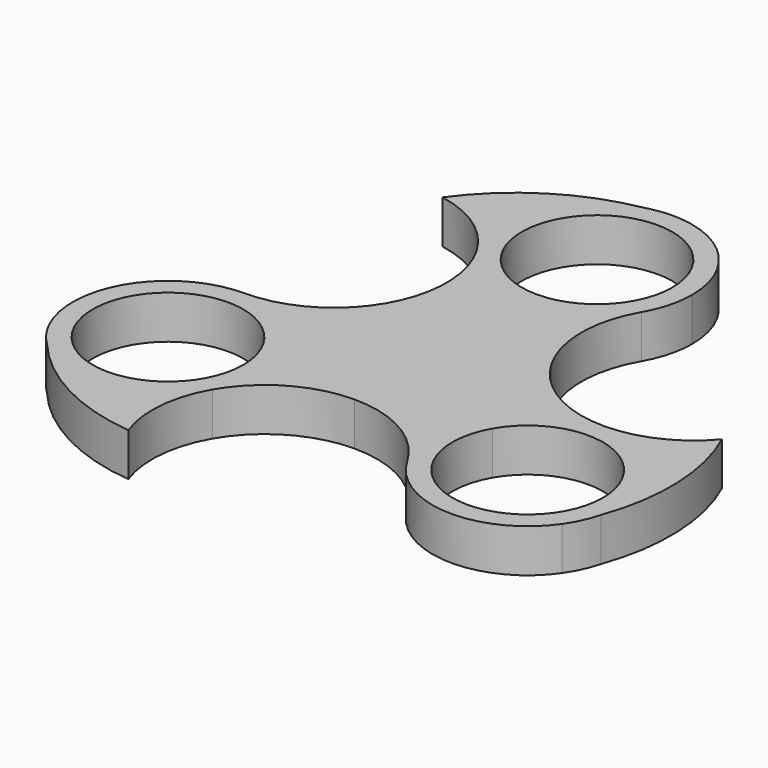
from build123d import *

# Parameters (mm, degrees)
F1_DEPTH = 6.35


with BuildPart() as f1:
    # F0 (on Top) → F1 (new body)
    with BuildSketch(Plane.XY):
        with BuildLine():
            Line((-14.298079, -8.255), (0, 0))
            Line((0, 0), (0, 16.51))
            ThreePointArc((0, 16.51), (-6.985, 18.381625), (-12.098375, 23.495))
            ThreePointArc((-12.098375, 23.495), (-9.886492, 15.204646), (-12.13386, 6.923841))
            ThreePointArc((-12.13386, 6.923841), (-18.172091, 0.924276), (-26.396454, -1.27))
            ThreePointArc((-26.396454, -1.27), (-25.702754, -1.287234), (-25.010766, -1.338893))
            ThreePointArc((-25.010766, -1.338893), (-18.819309, -3.5034), (-14.298079, -8.255))
        make_face()
        with BuildLine():
            Line((0, -13.97), (0, 0))
            Line((0, 0), (-14.298079, -8.255))
            ThreePointArc((-14.298079, -8.255), (-12.902471, -11.624298), (-12.426454, -15.24))
            ThreePointArc((-12.426454, -15.24), (-12.902471, -18.855702), (-14.298079, -22.225))
            ThreePointArc((-14.298079, -22.225), (-8.255, -16.181921), (0, -13.97))
        make_face()
        with BuildLine():
            Line((12.098375, 6.985), (0, 0))
            Line((0, 0), (14.298079, -8.255))
            ThreePointArc((14.298079, -8.255), (19.411454, -3.141625), (26.396454, -1.27))
            ThreePointArc((26.396454, -1.27), (18.141454, 0.941921), (12.098375, 6.985))
        make_face()
        with BuildLine():
            Line((14.298079, -8.255), (0, 0))
            Line((0, 0), (0, -13.97))
            ThreePointArc((0, -13.97), (8.255, -16.181921), (14.298079, -22.225))
            ThreePointArc((14.298079, -22.225), (12.426454, -15.24), (14.298079, -8.255))
        make_face()
        with BuildLine():
            Line((0, 16.51), (0, 0))
            Line((0, 0), (12.098375, 6.985))
            ThreePointArc((12.098375, 6.985), (9.886454, 15.24), (12.098375, 23.495))
            ThreePointArc((12.098375, 23.495), (6.985, 18.381625), (0, 16.51))
        make_face()
        with BuildLine():
            ThreePointArc((11.049, 30.48), (-7.812823, 38.292823), (0, 19.431))
            ThreePointArc((0, 19.431), (7.812823, 22.667177), (11.049, 30.48))
        make_face()
        with BuildLine():
            ThreePointArc((-12.098375, 23.495), (-6.985, 18.381625), (0, 16.51))
            ThreePointArc((0, 16.51), (6.985, 18.381625), (12.098375, 23.495))
            ThreePointArc((12.098375, 23.495), (13.493984, 26.864298), (13.97, 30.48))
            ThreePointArc((13.97, 30.48), (10.291919, 39.92655), (1.194438, 44.398844))
            ThreePointArc((1.194438, 44.398844), (-1.30857, 44.263376), (-3.792353, 43.925407))
            ThreePointArc((-3.792353, 43.925407), (-12.941375, 35.741341), (-12.098375, 23.495))
        make_face()
        with BuildLine():
            ThreePointArc((11.049, 30.48), (7.812823, 22.667177), (0, 19.431))
            ThreePointArc((0, 19.431), (-7.812823, 38.292823), (11.049, 30.48))
        make_face(mode=Mode.SUBTRACT)
        with BuildLine():
            ThreePointArc((-15.347454, -15.24), (-15.72394, -12.380308), (-16.82774, -9.7155))
            ThreePointArc((-16.82774, -9.7155), (-37.068969, -18.099692), (-15.347454, -15.24))
        make_face()
        with BuildLine():
            ThreePointArc((-12.426454, -15.24), (-12.902471, -11.624298), (-14.298079, -8.255))
            ThreePointArc((-14.298079, -8.255), (-18.819309, -3.5034), (-25.010766, -1.338893))
            ThreePointArc((-25.010766, -1.338893), (-26.431469, -1.403743), (-27.852483, -1.346085))
            ThreePointArc((-27.852483, -1.346085), (-38.559988, -8.369094), (-39.047746, -21.165008))
            ThreePointArc((-39.047746, -21.165008), (-37.678923, -23.264942), (-36.144342, -25.246977))
            ThreePointArc((-36.144342, -25.246977), (-24.482222, -29.07823), (-14.298079, -22.225))
            ThreePointArc((-14.298079, -22.225), (-12.902471, -18.855702), (-12.426454, -15.24))
        make_face()
        with BuildLine():
            ThreePointArc((-15.347454, -15.24), (-37.068969, -18.099692), (-16.82774, -9.7155))
            ThreePointArc((-16.82774, -9.7155), (-15.72394, -12.380308), (-15.347454, -15.24))
        make_face(mode=Mode.SUBTRACT)
        with BuildLine():
            ThreePointArc((37.445454, -15.24), (29.256146, -4.567486), (16.82774, -9.7155))
            ThreePointArc((16.82774, -9.7155), (23.536763, -25.912514), (37.445454, -15.24))
        make_face()
        with BuildLine():
            ThreePointArc((26.396454, -1.27), (19.411454, -3.141625), (14.298079, -8.255))
            ThreePointArc((14.298079, -8.255), (12.426454, -15.24), (14.298079, -22.225))
            ThreePointArc((14.298079, -22.225), (25.798688, -29.197205), (37.853308, -23.233836))
            ThreePointArc((37.853308, -23.233836), (38.987493, -20.998433), (39.936694, -18.678429))
            ThreePointArc((39.936694, -18.678429), (40.258598, -16.972591), (40.366454, -15.24))
            ThreePointArc((40.366454, -15.24), (36.274736, -5.361718), (26.396454, -1.27))
        make_face()
        with BuildLine():
            ThreePointArc((37.445454, -15.24), (23.536763, -25.912514), (16.82774, -9.7155))
            ThreePointArc((16.82774, -9.7155), (29.256146, -4.567486), (37.445454, -15.24))
        make_face(mode=Mode.SUBTRACT)
        with BuildLine():
            ThreePointArc((-23.504818, 31.494801), (-16.916434, 28.757001), (-12.098375, 23.495))
            ThreePointArc((-12.098375, 23.495), (-12.941375, 35.741341), (-3.792353, 43.925407))
            ThreePointArc((-3.792353, 43.925407), (-14.865803, 39.640368), (-23.504818, 31.494801))
        make_face()
        with BuildLine():
            ThreePointArc((-27.852483, -1.346085), (-26.431469, -1.403743), (-25.010766, -1.338893))
            ThreePointArc((-25.010766, -1.338893), (-25.702754, -1.287234), (-26.396454, -1.27))
            ThreePointArc((-26.396454, -1.27), (-27.125462, -1.289034), (-27.852483, -1.346085))
        make_face()
        with BuildLine():
            ThreePointArc((39.027706, 4.608369), (33.362511, 0.271561), (26.396454, -1.27))
            ThreePointArc((26.396454, -1.27), (36.274736, -5.361718), (40.366454, -15.24))
            ThreePointArc((40.366454, -15.24), (40.258598, -16.972591), (39.936694, -18.678429))
            ThreePointArc((39.936694, -18.678429), (41.762467, -6.946021), (39.027706, 4.608369))
        make_face()
        with BuildLine():
            ThreePointArc((-15.522888, -36.10317), (-16.446076, -29.028562), (-14.298079, -22.225))
            ThreePointArc((-14.298079, -22.225), (-24.482222, -29.07823), (-36.144342, -25.246977))
            ThreePointArc((-36.144342, -25.246977), (-26.896664, -32.694347), (-15.522888, -36.10317))
        make_face()
        with BuildLine():
            ThreePointArc((-1.194438, 44.398844), (-2.504607, 44.223647), (-3.792353, 43.925407))
            ThreePointArc((-3.792353, 43.925407), (-1.30857, 44.263376), (1.194438, 44.398844))
            ThreePointArc((1.194438, 44.398844), (0, 44.414908), (-1.194438, 44.398844))
        make_face()
        with BuildLine():
            ThreePointArc((39.936694, -18.678429), (38.987493, -20.998433), (37.853308, -23.233836))
            ThreePointArc((37.853308, -23.233836), (39.100847, -21.050275), (39.936694, -18.678429))
        make_face()
        with BuildLine():
            ThreePointArc((-37.853308, -23.233836), (-37.046498, -24.280877), (-36.144342, -25.246977))
            ThreePointArc((-36.144342, -25.246977), (-37.678923, -23.264942), (-39.047746, -21.165008))
            ThreePointArc((-39.047746, -21.165008), (-38.464438, -22.207454), (-37.853308, -23.233836))
        make_face()
        with BuildLine():
            ThreePointArc((1.194438, 44.398844), (0, 44.45), (-1.194438, 44.398844))
            ThreePointArc((-1.194438, 44.398844), (0, 44.414908), (1.194438, 44.398844))
        make_face()
        with BuildLine():
            ThreePointArc((-37.853308, -23.233836), (-38.464438, -22.207454), (-39.047746, -21.165008))
            ThreePointArc((-39.047746, -21.165008), (-38.494829, -22.225), (-37.853308, -23.233836))
        make_face()
    extrude(amount=F1_DEPTH)


solid = f1.part
